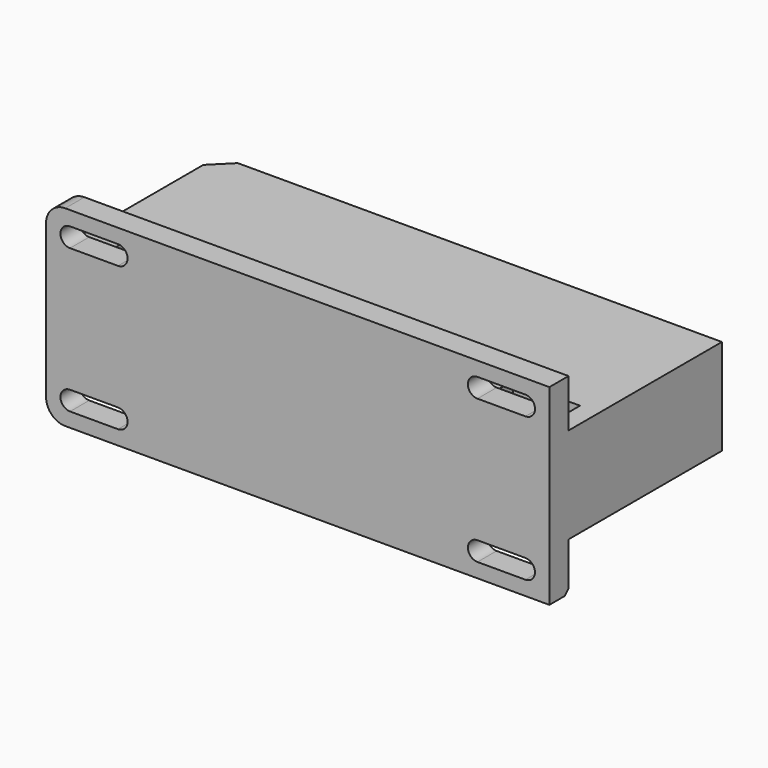
from build123d import *

# Parameters (mm, degrees)
SKETCH001_W            = 105
SKETCH001_H            = 40
PAD001_DEPTH           = 45
SKETCH002_W            = 10
SKETCH002_H            = 40
POCKET_DEPTH           = 105.001
POCKET001_DEPTH        = 5.001
POCKET002_DEPTH        = 17
LINEARPATTERN_COUNT    = 5
LINEARPATTERN_PITCH    = 20
SKETCH005_W            = 14
SKETCH005_H            = 8
POCKET003_DEPTH        = 15
LINEARPATTERN001_COUNT = 5
LINEARPATTERN001_PITCH = 20
SKETCH006_R            = 2.5
SKETCH006_R_2          = 2
POCKET004_DEPTH        = 15.001
LINEARPATTERN002_COUNT = 5
LINEARPATTERN002_PITCH = 20
FILLET_R               = 4
CHAMFER_SIZE           = 1
CHAMFER001_SIZE        = 4


with BuildPart() as part:
    # Sketch001 → Pad001 (new body)
    with BuildSketch(Plane.XZ):
        with Locations((-2.5, 0)):
            Rectangle(SKETCH001_W, SKETCH001_H)
    extrude(amount=-PAD001_DEPTH)

    # Sketch002 (on Face4 of Pad001) → Pocket (cut, through all)
    with BuildSketch(Plane(origin=(-55, 0, 0), x_dir=(0, 0, -1), z_dir=(-1, 0, 0))):
        with Locations((-15, -25)):
            Rectangle(SKETCH002_W, SKETCH002_H)
        with Locations((15, -25)):
            Rectangle(SKETCH002_W, SKETCH002_H)
    extrude(amount=-POCKET_DEPTH, mode=Mode.SUBTRACT)

    # Sketch003 (on Face7 of Pocket) → Pocket001 (cut, through all)
    with BuildSketch(Plane(origin=(0, 5, 0), x_dir=(1, 0, 0), z_dir=(0, 1, 0))):
        with BuildLine():
            ThreePointArc((-50, 17), (-52, 15), (-50, 13))
            Line((-50, 13), (-40, 13))
            ThreePointArc((-40, 13), (-38, 15), (-40, 17))
            Line((-50, 17), (-40, 17))
        make_face()
        with BuildLine():
            ThreePointArc((35, 17), (33, 15), (35, 13))
            Line((35, 13), (45, 13))
            ThreePointArc((45, 13), (47, 15), (45, 17))
            Line((35, 17), (45, 17))
        make_face()
        with BuildLine():
            ThreePointArc((-50, -13), (-52, -15), (-50, -17))
            Line((-50, -17), (-40, -17))
            ThreePointArc((-40, -17), (-38, -15), (-40, -13))
            Line((-50, -13), (-40, -13))
        make_face()
        with BuildLine():
            ThreePointArc((35, -13), (33, -15), (35, -17))
            Line((35, -17), (45, -17))
            ThreePointArc((45, -17), (47, -15), (45, -13))
            Line((35, -13), (45, -13))
        make_face()
    extrude(amount=-POCKET001_DEPTH, mode=Mode.SUBTRACT)

    # Sketch004 (on Face24 of Pocket001) → Pocket002 (cut)
    with BuildSketch(Plane(origin=(0, 0, -10), x_dir=(1, 0, 0), z_dir=(0, 0, -1))):
        Polygon((47, -45), (47, -39), (48.9, -37), (48.9, -15), (30.9, -15), (30.9, -37), (32.8, -39), (32.8, -45), align=None)
    pocket002 = extrude(amount=-POCKET002_DEPTH, mode=Mode.SUBTRACT)

    # LinearPattern: Pocket002 ×5
    with Locations(*[(-i * LINEARPATTERN_PITCH, 0, 0) for i in range(1, LINEARPATTERN_COUNT)]):
        add(pocket002, mode=Mode.SUBTRACT)

    # Sketch005 (on Face26 of LinearPattern) → Pocket003 (cut)
    with BuildSketch(Plane(origin=(0, 0, 10), x_dir=(-1, 0, 0), z_dir=(0, 0, 1))):
        with Locations((-39, -9)):
            Rectangle(SKETCH005_W, SKETCH005_H)
    pocket003 = extrude(amount=-POCKET003_DEPTH, mode=Mode.SUBTRACT)

    # LinearPattern001: Pocket003 ×5
    with Locations(*[(-i * LINEARPATTERN001_PITCH, 0, 0) for i in range(1, LINEARPATTERN001_COUNT)]):
        add(pocket003, mode=Mode.SUBTRACT)

    # Sketch006 (on Face27 of LinearPattern001) → Pocket004 (cut, through all)
    with BuildSketch(Plane(origin=(0, 0, -5), x_dir=(-1, 0, 0), z_dir=(0, 0, 1))):
        with Locations((-42, -9)):
            Circle(SKETCH006_R)
        with Locations((-35, -9)):
            Circle(SKETCH006_R_2)
    pocket004 = extrude(amount=-POCKET004_DEPTH, mode=Mode.SUBTRACT)

    # LinearPattern002: Pocket004 ×5
    with Locations(*[(-i * LINEARPATTERN002_PITCH, 0, 0) for i in range(1, LINEARPATTERN002_COUNT)]):
        add(pocket004, mode=Mode.SUBTRACT)

    # Fillet
    fillet_edges = [part.edges().sort_by_distance(p)[0] for p in [
        (-55, 2.5, -20),
        (-55, 2.5, 20),
    ]]
    fillet(fillet_edges, radius=FILLET_R)

    # Chamfer
    chamfer_edges = [part.edges().sort_by_distance(p)[0] for p in [
        (-0.5, 5, -20),
    ]]
    chamfer(chamfer_edges, length=CHAMFER_SIZE)

    # Chamfer001
    chamfer001_edges = [part.edges().sort_by_distance(p)[0] for p in [
        (-55, 45, 0),
    ]]
    chamfer(chamfer001_edges, length=CHAMFER001_SIZE)


solid = part.part
